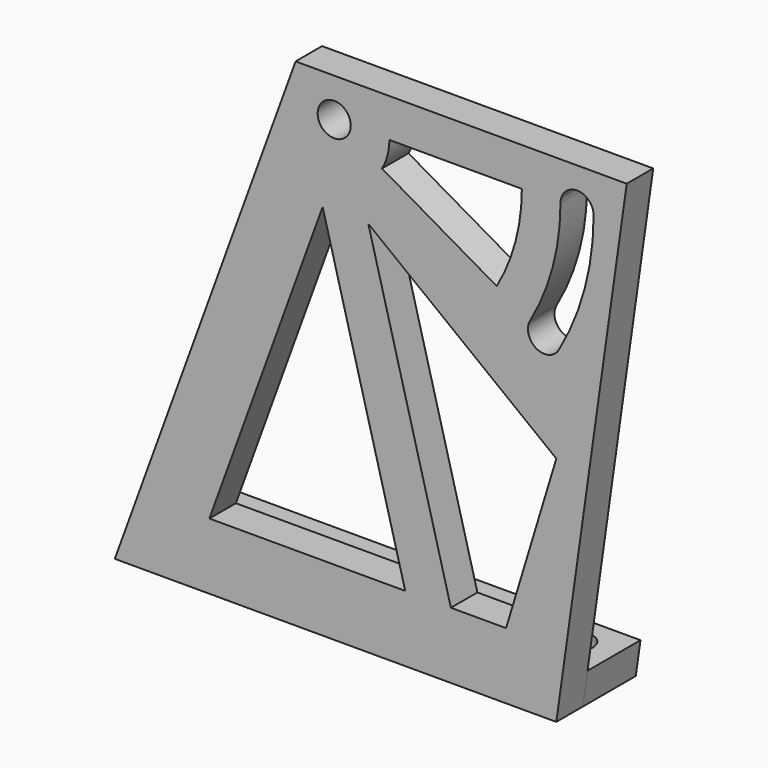
from build123d import *

# Parameters (mm, degrees)
F0_R     = 1.5
F1_DEPTH = 3
F3_DEPTH = 6
F4_R     = 1.5
F5_DEPTH = 25
F7_DEPTH = 25


with BuildPart() as f1:
    # F0 (on Front) → F1 (new body)
    with BuildSketch(Plane.XZ):
        Polygon((16.378661, 45), (0, 0), (40, 0), (46.378661, 45), align=None)
        with Locations((19.878661, 41.5)):
            Circle(F0_R, mode=Mode.SUBTRACT)
        with BuildLine():
            ThreePointArc((43.378661, 41.5), (42.577917, 35.417752), (40.230258, 29.75))
            ThreePointArc((40.230258, 29.75), (38.181219, 29.200962), (37.632181, 31.25))
            ThreePointArc((37.632181, 31.25), (39.68014, 36.19421), (40.378661, 41.5))
            ThreePointArc((40.378661, 41.5), (41.878661, 43), (43.378661, 41.5))
        make_face(mode=Mode.SUBTRACT)
    extrude(amount=F1_DEPTH)

    # F2 (on face) → F3 (join)
    with BuildSketch(Plane(origin=(0, 0, 0), x_dir=(-1, 0, 0), z_dir=(0, 1, 0))):
        Polygon((-40.425244, 3), (-40, 0), (-2, 0), (-2, 3), align=None)
    extrude(amount=F3_DEPTH)

    # F4 (on face) → F5 (cut)
    with BuildSketch(Plane(origin=(0, 0, 0), x_dir=(1, 0, 0), z_dir=(0, 0, -1))):
        with Locations((37, -3)):
            Circle(F4_R)
        with Locations((5, -3)):
            Circle(F4_R)
    extrude(amount=-F5_DEPTH, mode=Mode.SUBTRACT)

    # F6 (on face) → F7 (cut)
    with BuildSketch(Plane.XZ.offset(3)):
        Polygon((18.830264, 34.192898), (8.568888, 6), (26.311674, 6), align=None)
        Polygon((40, 21), (22.968705, 34.192898), (30.450115, 6), (35.450115, 6), align=None)
        with BuildLine():
            ThreePointArc((24.878661, 41.5), (24.70829, 40.205905), (24.208788, 39))
            Line((24.208788, 39), (34.601092, 33))
            ThreePointArc((34.601092, 33), (36.2994, 37.100076), (36.878661, 41.5))
            Line((36.878661, 41.5), (24.878661, 41.5))
        make_face()
    extrude(amount=-F7_DEPTH, mode=Mode.SUBTRACT)


solid = f1.part
